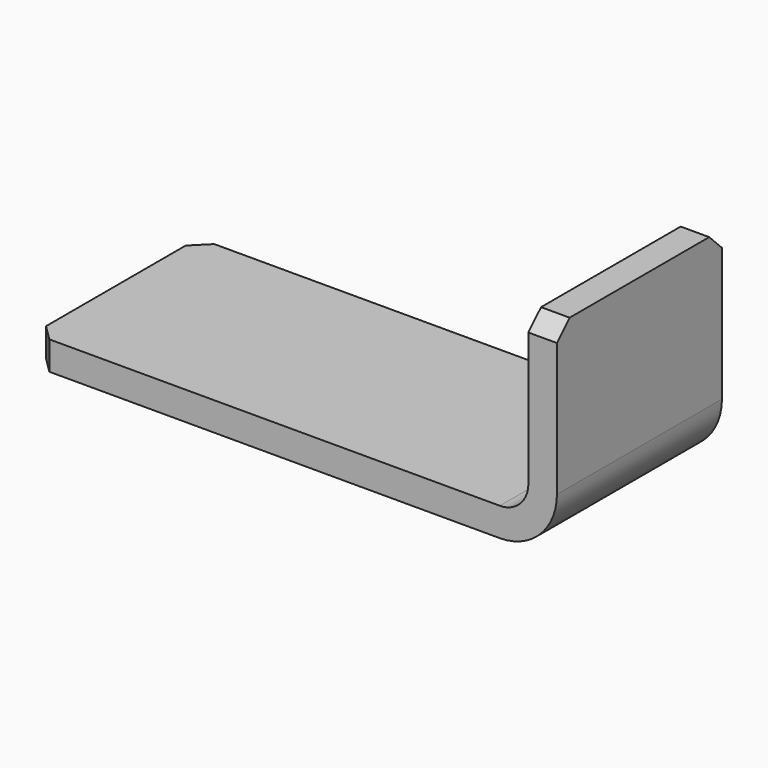
from build123d import *

# Parameters (mm, degrees)
F1_DEPTH = 65
F2_R     = 9
F3_R     = 18
F4_SIZE  = 5


with BuildPart() as f1:
    # F0 (on Front) → F1 (new body)
    with BuildSketch(Plane.XZ):
        Polygon((0, 9), (0, 0), (165, 0), (165, 65), (156, 65), (156, 9), align=None)
    extrude(amount=-F1_DEPTH)

    # F2
    f2_edges = [f1.edges().sort_by_distance(p)[0] for p in [
        (156, 32.5, 9),
    ]]
    fillet(f2_edges, radius=F2_R)

    # F3
    f3_edges = [f1.edges().sort_by_distance(p)[0] for p in [
        (165, 32.5, 0),
    ]]
    fillet(f3_edges, radius=F3_R)

    # F4
    f4_edges = [f1.edges().sort_by_distance(p)[0] for p in [
        (160.5, 65, 65),
        (160.5, 0, 65),
        (0, 65, 4.5),
        (0, 0, 4.5),
    ]]
    chamfer(f4_edges, length=F4_SIZE)


solid = f1.part
